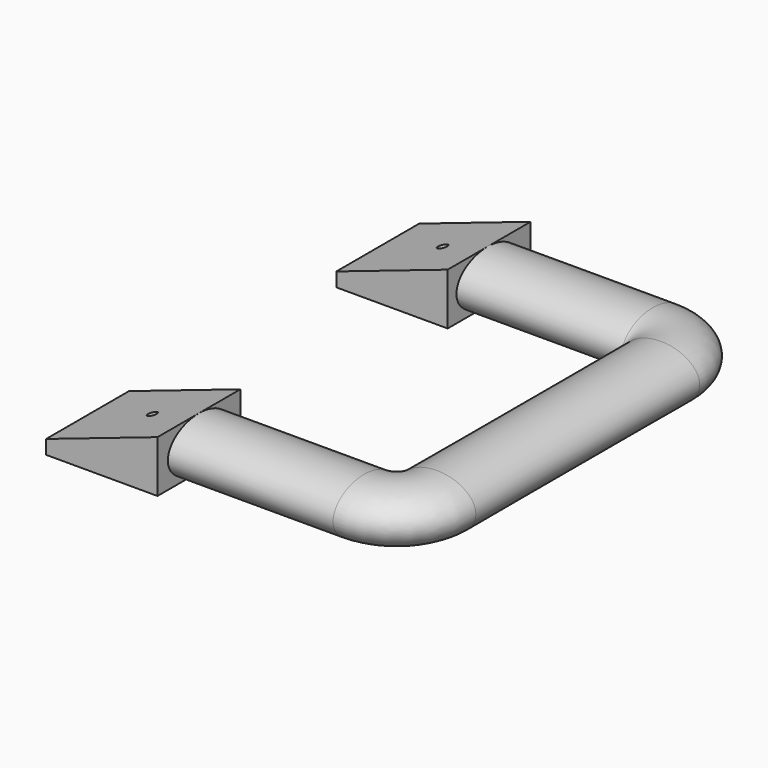
from build123d import *

# Parameters (mm, degrees)
F1_DEPTH  = 40
F4_DEPTH  = 40
F10_R     = 1.75
F10_R_2   = 1.7831750166
F11_DEPTH = 25


with BuildPart() as f1:
    # F0 (on Front) → F1 (new body)
    with BuildSketch(Plane.XZ):
        Polygon((-28, 47), (-28, 61.6), (-71, 47), (-71, 41.6), (-28, 41.6), align=None)
    extrude(amount=F1_DEPTH)


with BuildPart() as f4:
    # F3 (on offset) → F4 (new body)
    with BuildSketch(Plane.XZ.offset(140)):
        Polygon((-28, 47), (-28, 61.6), (-71, 47), (-71, 41.6), (-28, 41.6), align=None)
    extrude(amount=F4_DEPTH)


with BuildPart() as f8:
    # F8: sweep along a path in F7
    with BuildLine(Plane(origin=(0, 0, 51.6), x_dir=(1, 0, 0), z_dir=(0, 0, -1))) as f8_path:
        Line((-28.2270391732, 160.3914648294), (35.7729608268, 160.3914648294))
        ThreePointArc((35.7729608268, 160.3914648294), (47.0866693257, 155.7051733284), (51.7729608268, 144.3914648294))
        Line((51.7729608268, 144.3914648294), (51.7729608268, 36.3914648294))
        ThreePointArc((51.7729608268, 36.3914648294), (47.0866693257, 25.0777563305), (35.7729608268, 20.3914648294))
        Line((35.7729608268, 20.3914648294), (-28.2270391732, 20.3914648294))
    # F5 (on face) → F8 (sweep)
    with BuildSketch(Plane.YZ.offset(-28)):
        with BuildLine():
            add(Edge.make_bspline(
                [(-160, 61.6), (-175, 61.6), (-175, 51.6)],
                knots=[4.7123889804, 4.7123889804, 4.7123889804, 6.2831853072, 6.2831853072, 6.2831853072], degree=2, weights=[1, 0.7071067812, 1]))
            add(Edge.make_bspline(
                [(-175, 51.6), (-175, 41.6), (-160, 41.6)],
                knots=[0, 0, 0, 1.5707963268, 1.5707963268, 1.5707963268], degree=2, weights=[1, 0.7071067812, 1]))
            add(Edge.make_bspline(
                [(-160, 41.6), (-145, 41.6), (-145, 51.6), (-145, 61.6), (-160, 61.6)],
                knots=[1.5707963268, 1.5707963268, 1.5707963268, 3.1415926536, 3.1415926536, 4.7123889804, 4.7123889804, 4.7123889804], degree=2, weights=[1, 0.7071067812, 1, 0.7071067812, 1]))
        make_face()
    sweep(path=f8_path.line)


with BuildPart() as f11_tool:
    # F10 (on offset) → F11 (new body)
    with BuildSketch(Plane(origin=(0, 0, 41.6), x_dir=(1, 0, 0), z_dir=(0, 0, -1))):
        with Locations((-46, 160)):
            Circle(F10_R)
        with Locations((-46, 20)):
            Circle(F10_R_2)
    extrude(amount=-F11_DEPTH)


with BuildPart() as f1_1:
    add(f1.part)

    # F11: cut by f11_tool
    add(f11_tool.part, mode=Mode.SUBTRACT)


with BuildPart() as f4_1:
    add(f4.part)

    # F11: cut by f11_tool
    add(f11_tool.part, mode=Mode.SUBTRACT)


solid = Compound([f8.part, f1_1.part, f4_1.part])
